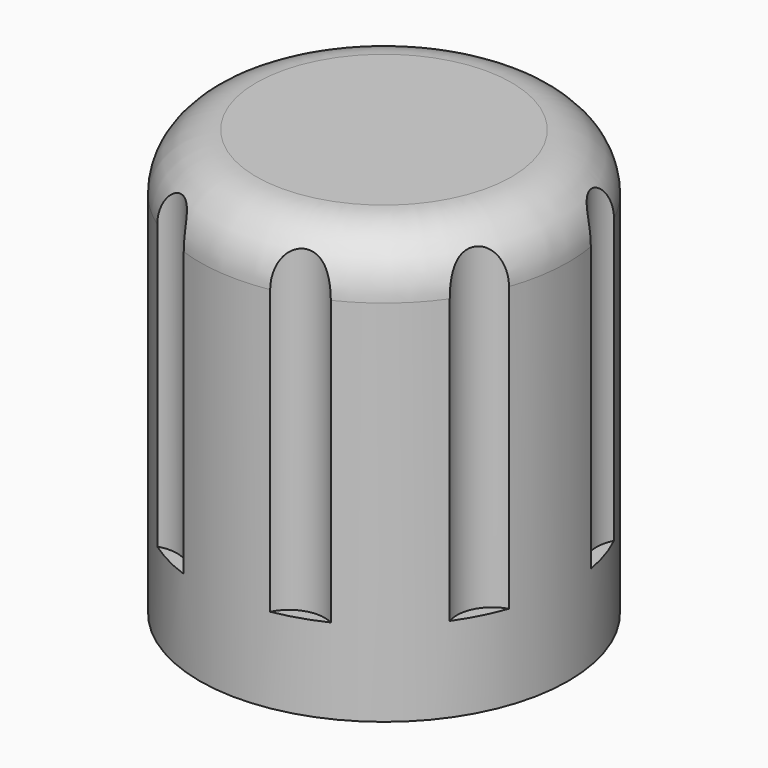
from build123d import *

# Parameters (mm, degrees)
CYLINDER_R         = 6.5
CYLINDER_DEPTH     = 15
CYLINDER001_R      = 3.2
CYLINDER001_DEPTH  = 13
BOX_W              = 2
BOX_H              = 7.5
BOX_DEPTH          = 7
FILLET_R           = 2
CYLINDER002_R      = 1.25
CYLINDER002_DEPTH  = 12
POLARPATTERN_COUNT = 8
CYLINDER003_R      = 4
CYLINDER003_DEPTH  = 4


with BuildPart() as part:
    # Cylinder → Cylinder (join)
    with BuildSketch(Plane.XY):
        Circle(CYLINDER_R)
    extrude(amount=CYLINDER_DEPTH)

    # Cylinder001 → Cylinder001 (cut)
    with BuildSketch(Plane(origin=(0, 0, 13), x_dir=(1, 0, 0), z_dir=(0, 0, -1))):
        Circle(CYLINDER001_R)
    extrude(amount=CYLINDER001_DEPTH, mode=Mode.SUBTRACT)

    # Box → Box (join)
    with BuildSketch(Plane(origin=(1.5, 3.75, 14), x_dir=(1, 0, 0), z_dir=(0, 0, -1))):
        with Locations((1, 3.75)):
            Rectangle(BOX_W, BOX_H)
    extrude(amount=BOX_DEPTH)

    # Fillet
    fillet_edges = [part.edges().sort_by_distance(p)[0] for p in [
        (-6.5, 0, 15),
    ]]
    fillet(fillet_edges, radius=FILLET_R)

    # Cylinder002 → Cylinder002 (cut)
    with BuildSketch(Plane(origin=(-6.5, 3.35, 3), x_dir=(1, 0, 0), z_dir=(0, 0, 1))):
        Circle(CYLINDER002_R)
    cylinder002 = extrude(amount=CYLINDER002_DEPTH, mode=Mode.SUBTRACT)

    # PolarPattern: Cylinder002 ×8 about axis
    polarpattern_axis = Axis((0, 0, 0), (0, 0, 1))
    for i in range(1, POLARPATTERN_COUNT):
        add(cylinder002.rotate(polarpattern_axis, i * 360 / POLARPATTERN_COUNT), mode=Mode.SUBTRACT)

    # Cylinder003 → Cylinder003 (cut)
    with BuildSketch(Plane(origin=(0, 0, 4), x_dir=(1, 0, 0), z_dir=(0, 0, -1))):
        Circle(CYLINDER003_R)
    extrude(amount=CYLINDER003_DEPTH, mode=Mode.SUBTRACT)


solid = part.part
